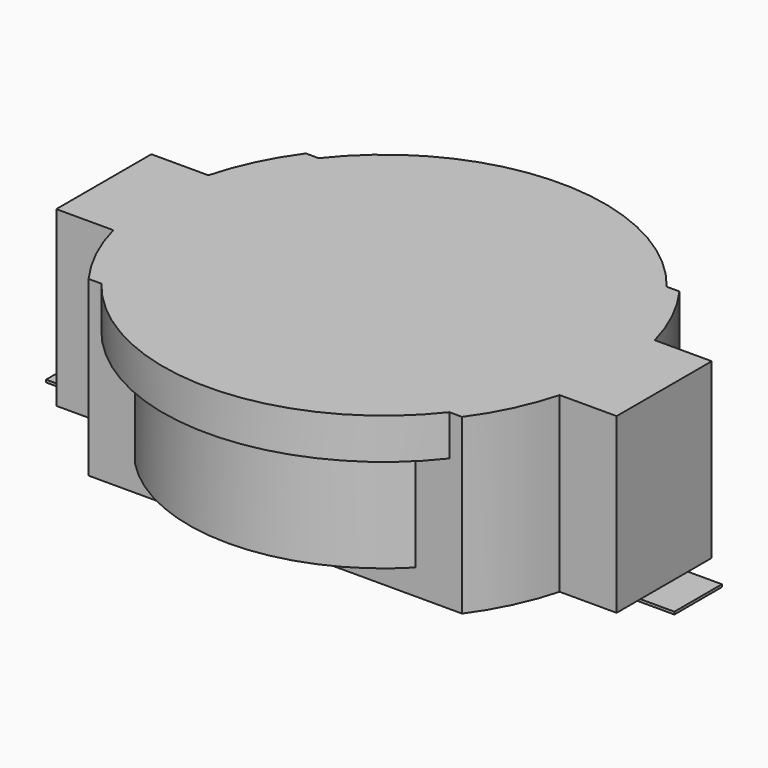
from build123d import *

# Parameters (mm, degrees)
F0_W     = 3.75
F0_H     = 3.5
F1_DEPTH = 0.15
F2_W     = 33
F2_H     = 7
F3_DEPTH = 10.2
F5_DEPTH = 10.2
F6_R     = 11.5
F7_DEPTH = 8.7
F8_R     = 13
F9_DEPTH = 2.4


with BuildPart() as f1:
    # F0 (on Top) → F1 (new body)
    with BuildSketch(Plane.XY):
        with Locations((-16.625, 0)):
            Rectangle(F0_W, F0_H)
        with Locations((16.625, 0)):
            Rectangle(F0_W, F0_H)
    extrude(amount=F1_DEPTH)


with BuildPart() as f3:
    # F2 (on face) → F3 (new body)
    with BuildSketch(Plane.XY.offset(0.15)):
        Rectangle(F2_W, F2_H)
    extrude(amount=F3_DEPTH)

    # F4 (on face) → F5 (join)
    with BuildSketch(Plane.XY.offset(0.15)):
        with BuildLine():
            Line((11, 8), (-11, 8))
            ThreePointArc((-11, 8), (-13.601471, 0), (-11, -8))
            Line((-11, -8), (11, -8))
            ThreePointArc((11, -8), (13.601471, 0), (11, 8))
        make_face()
    extrude(amount=F5_DEPTH)

    # F6 (on face) → F7 (join)
    with BuildSketch(Plane.XY.offset(10.35)):
        Circle(F6_R)
    extrude(amount=-F7_DEPTH)

    # F8 (on face) → F9 (join)
    with BuildSketch(Plane.XY.offset(10.35)):
        Circle(F8_R)
    extrude(amount=-F9_DEPTH)


solid = Compound([f1.part, f3.part])
